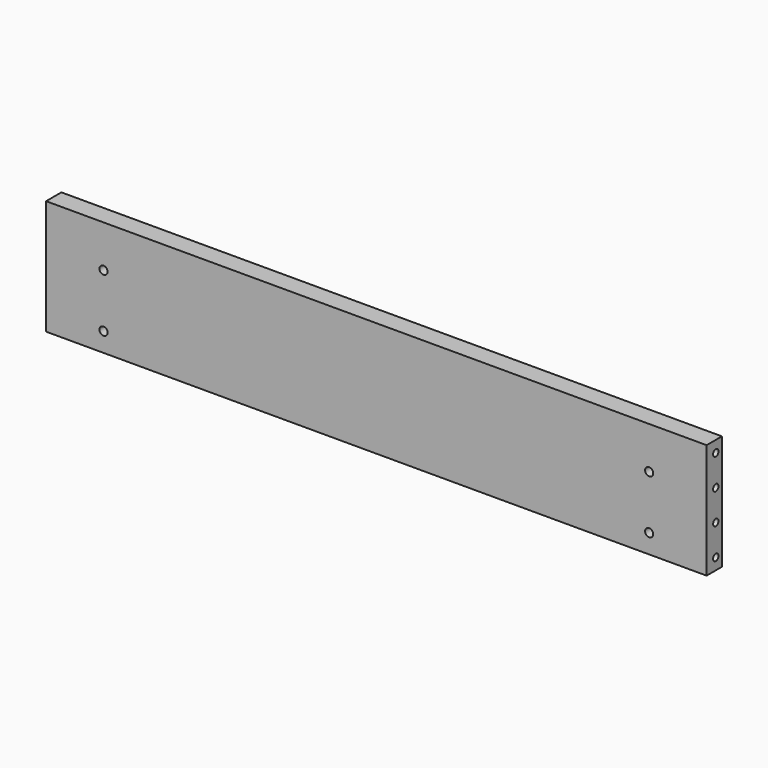
from build123d import *

# Parameters (mm, degrees)
F0_W     = 63.5
F0_H     = 381
F1_DEPTH = 1095.375
F3_D     = 22.225
F3_DEPTH = 50.8
F3_TIP   = 6.6770636289
F5_D     = 27.0002


with BuildPart() as f1:
    # F0 (on Right) → F1 (new body)
    with BuildSketch(Plane.YZ):
        Rectangle(F0_W, F0_H)
    extrude(amount=F1_DEPTH)

    # F3
    with Locations(Plane.YZ.offset(1095.375)):
        with Locations((6.35, 152.4), (6.35, 50.8), (6.35, -50.8), (6.35, -152.4)):
            Hole(F3_D / 2, depth=F3_DEPTH)
            with Locations((0, 0, -(F3_DEPTH + F3_TIP / 2))):  # 118° drill point
                Cone(0, F3_D / 2, F3_TIP, mode=Mode.SUBTRACT)

    # F5 (through all)
    with Locations(Plane.XZ.offset(31.75)):
        with Locations((904.875, 50.8), (904.875, -127)):
            Hole(F5_D / 2)

    # F6: F1 across plane


with BuildPart() as f1_1:
    add(f1.part)
    add(f1.part.mirror(Plane.YZ))


solid = f1_1.part
